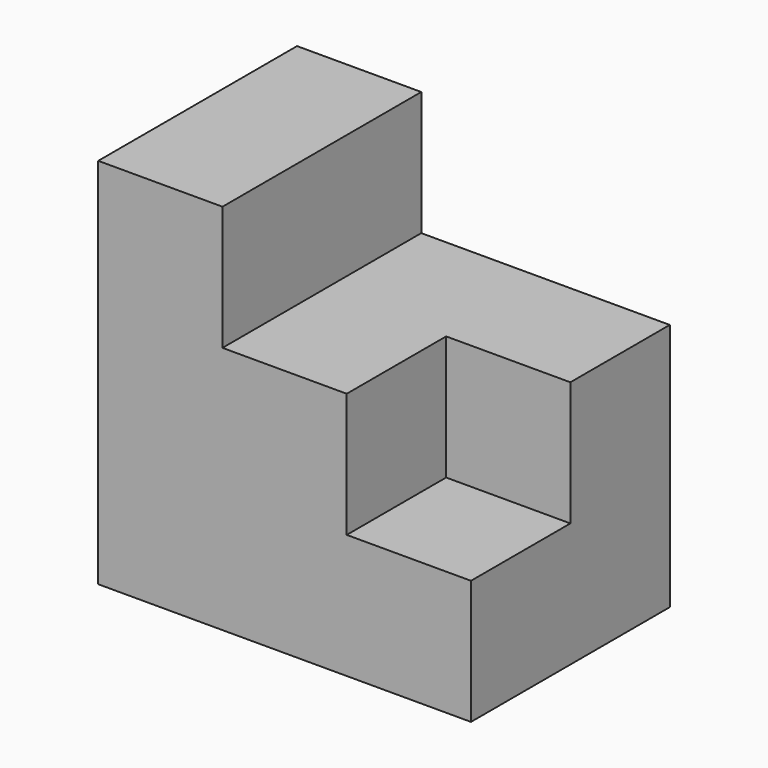
from build123d import *

# Parameters (mm, degrees)
F1_DEPTH = 20
F0_W     = 20
F0_H     = 20
F2_DEPTH = 20


with BuildPart() as f1:
    # F0 (on Front) → F1 (new body, symmetric)
    with BuildSketch(Plane.XZ):
        Polygon((0, 60), (0, 0), (60, 0), (60, 20), (40, 20), (40, 40), (20, 40), (20, 60), align=None)
    extrude(amount=F1_DEPTH, both=True)

    # F0 (on Front) → F2 (join)
    with BuildSketch(Plane.XZ):
        Polygon((0, 60), (0, 0), (60, 0), (60, 20), (40, 20), (40, 40), (20, 40), (20, 60), align=None)
        with Locations((50, 30)):
            Rectangle(F0_W, F0_H)
    extrude(amount=-F2_DEPTH)


solid = f1.part
